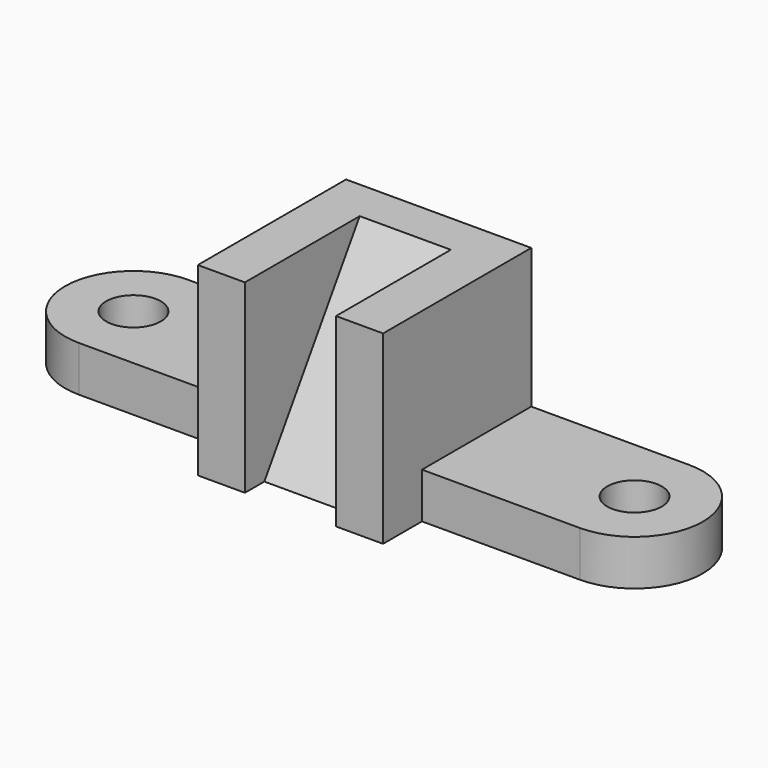
from build123d import *

# Parameters (mm, degrees)
F0_W      = 52
F0_H      = 15
F1_DEPTH  = 45
F2_DEPTH  = 61
F4_DEPTH  = 15
F6_R      = 9
F5_R      = 9
F7_DEPTH  = 15
F10_DEPTH = 30


with BuildPart() as f1:
    # F0 (on Front) → F1 (new body)
    with BuildSketch(Plane.XZ):
        with Locations((-56.5, -23)):
            Rectangle(F0_W, F0_H)
    extrude(amount=F1_DEPTH)



with BuildPart() as f1b:
    # F0 (on Front) → F1, piece 2 (new body)
    with BuildSketch(Plane.XZ):
        with Locations((56.5, -23)):
            Rectangle(F0_W, F0_H)
    extrude(amount=F1_DEPTH)


with BuildPart() as f1_1:
    add(f1.part)

    add(f1b.part)  # F2 merges F1b
    # F0 (on Front) → F2 (join)
    with BuildSketch(Plane.XZ):
        Polygon((30.5, 30.5), (-30.5, 30.5), (-30.5, -15.5), (-30.5, -30.5), (30.5, -30.5), (30.5, -15.5), align=None)
    extrude(amount=F2_DEPTH)

    # F3 (on face) → F4 (join)
    with BuildSketch(Plane.XY.offset(-15.5)):
        with BuildLine():
            Line((-82.5, -45), (-82.5, 0))
            ThreePointArc((-82.5, 0), (-105, -22.5), (-82.5, -45))
        make_face()
        with BuildLine():
            Line((82.5, 0), (82.5, -45))
            ThreePointArc((82.5, -45), (105, -22.5), (82.5, 0))
        make_face()
    extrude(amount=-F4_DEPTH)

    # F6 (on face) + F5 (on face) → F7 (cut)
    with BuildSketch(Plane.XY.offset(-15.5)):
        with Locations((82.5, -22.5)):
            Circle(F6_R)
    with BuildSketch(Plane.XY.offset(-15.5)):
        with Locations((-82.5, -22.5)):
            Circle(F5_R)
    extrude(amount=-F7_DEPTH, mode=Mode.SUBTRACT)

    # F9 (on offset) → F10 (cut)
    with BuildSketch(Plane(origin=(-15, 0, 0), x_dir=(0, -1, 0), z_dir=(-1, 0, 0))):
        Polygon((61, 30.5), (13.75, 30.5), (53, -30.5), (61, -30.5), align=None)
    extrude(amount=-F10_DEPTH, mode=Mode.SUBTRACT)


solid = f1_1.part
